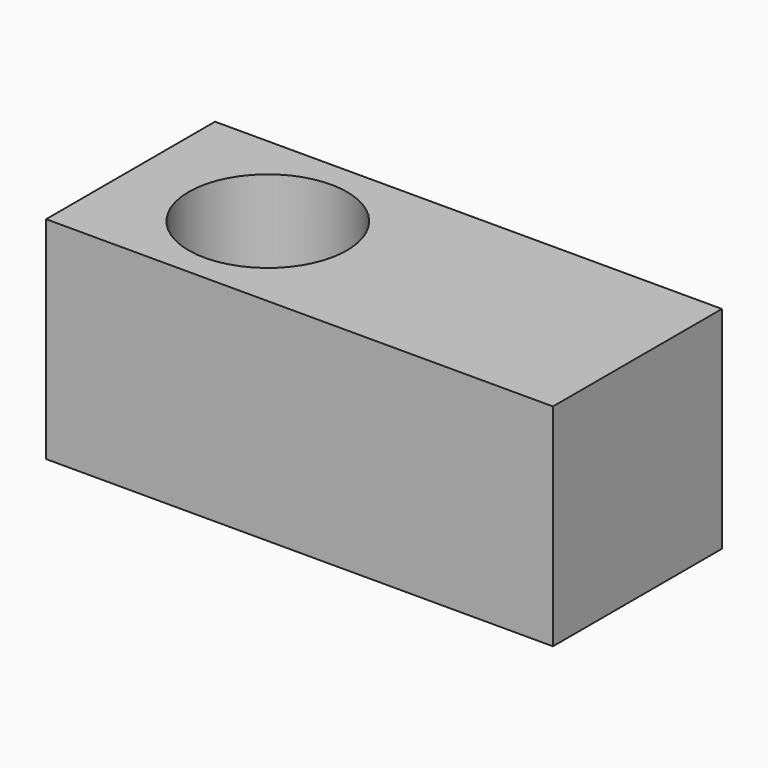
from build123d import *

# Parameters (mm, degrees)
F0_W     = 63.5
F0_H     = 63.5
F1_DEPTH = 76.2
F3_D     = 47.625


with BuildPart() as f1:
    # F0 (on Right) → F1 (new body, symmetric)
    with BuildSketch(Plane.YZ):
        Rectangle(F0_W, F0_H)
    extrude(amount=F1_DEPTH, both=True)

    # F3 (through all)
    with Locations(Plane.XY.offset(31.75)):
        with Locations((-34.925, 0)):
            Hole(F3_D / 2)


solid = f1.part
